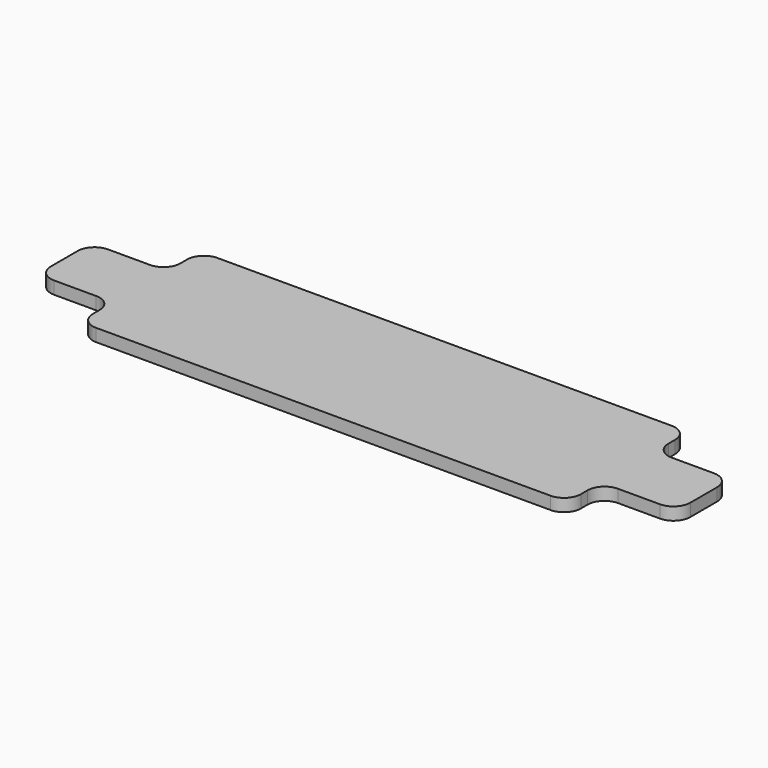
from build123d import *

# Parameters (mm, degrees)
F1_DEPTH = 19.05


with BuildPart() as f1:
    # F0 (on Top) → F1 (new body)
    with BuildSketch(Plane.XY):
        with BuildLine():
            Line((-292.1, 114.3), (-342.9, 114.3))
            ThreePointArc((-342.9, 114.3), (-360.860512, 106.860512), (-368.3, 88.9))
            Line((-368.3, 88.9), (-368.3, 76.2))
            ThreePointArc((-368.3, 76.2), (-375.739488, 58.239488), (-393.7, 50.8))
            Line((-393.7, 50.8), (-457.2, 50.8))
            ThreePointArc((-457.2, 50.8), (-475.160512, 43.360512), (-482.6, 25.4))
            Line((-482.6, 25.4), (-482.6, -25.4))
            ThreePointArc((-482.6, -25.4), (-475.160512, -43.360512), (-457.2, -50.8))
            Line((-457.2, -50.8), (-393.7, -50.8))
            ThreePointArc((-393.7, -50.8), (-375.739488, -58.239488), (-368.3, -76.2))
            Line((-368.3, -76.2), (-368.3, -88.9))
            ThreePointArc((-368.3, -88.9), (-360.860512, -106.860512), (-342.9, -114.3))
            Line((-342.9, -114.3), (-292.1, -114.3))
            Line((-292.1, -114.3), (-292.1, -63.5))
            Line((-292.1, -63.5), (-292.1, 63.5))
            Line((-292.1, 63.5), (-292.1, 114.3))
        make_face()
        Polygon((-88.9, 114.3), (-292.1, 114.3), (-292.1, 63.5), (-292.1, -63.5), (-292.1, -114.3), (-88.9, -114.3), (-88.9, 0), align=None)
        Polygon((88.9, 114.3), (-88.9, 114.3), (-88.9, 0), (-88.9, -114.3), (88.9, -114.3), (88.9, 0), align=None)
        Polygon((292.1, 114.3), (88.9, 114.3), (88.9, 0), (88.9, -114.3), (292.1, -114.3), (292.1, -63.5), (292.1, 63.5), align=None)
        with BuildLine():
            Line((342.9, 114.3), (292.1, 114.3))
            Line((292.1, 114.3), (292.1, 63.5))
            Line((292.1, 63.5), (292.1, -63.5))
            Line((292.1, -63.5), (292.1, -114.3))
            Line((292.1, -114.3), (342.9, -114.3))
            ThreePointArc((342.9, -114.3), (360.860512, -106.860512), (368.3, -88.9))
            Line((368.3, -88.9), (368.3, -76.2))
            ThreePointArc((368.3, -76.2), (375.739488, -58.239488), (393.7, -50.8))
            Line((393.7, -50.8), (457.2, -50.8))
            ThreePointArc((457.2, -50.8), (475.160512, -43.360512), (482.6, -25.4))
            Line((482.6, -25.4), (482.6, 25.4))
            ThreePointArc((482.6, 25.4), (475.160512, 43.360512), (457.2, 50.8))
            Line((457.2, 50.8), (393.7, 50.8))
            ThreePointArc((393.7, 50.8), (375.739488, 58.239488), (368.3, 76.2))
            Line((368.3, 76.2), (368.3, 88.9))
            ThreePointArc((368.3, 88.9), (360.860512, 106.860512), (342.9, 114.3))
        make_face()
    extrude(amount=F1_DEPTH)


solid = f1.part
